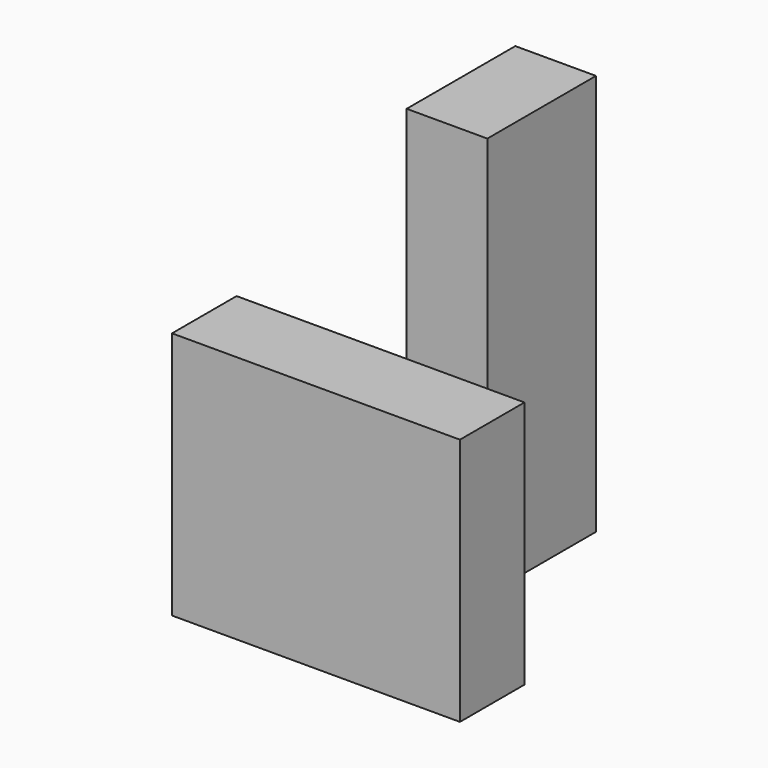
from build123d import *

# Parameters (mm, degrees)
F1_W     = 90.636328
F1_H     = 78.223586
F2_DEPTH = 25.4
F3_W     = 42.746566
F3_H     = 126.372248
F4_DEPTH = 25.4


with BuildPart() as f2:
    # F1 (on face) → F2 (new body)
    with BuildSketch(Plane.XZ):
        with Locations((-8.230172, 17.939165)):
            Rectangle(F1_W, F1_H)
    extrude(amount=F2_DEPTH)

    # F3 (on Right) → F4 (join)
    with BuildSketch(Plane.YZ):
        with Locations((21.373283, 63.186124)):
            Rectangle(F3_W, F3_H)
    extrude(amount=F4_DEPTH)


solid = f2.part
